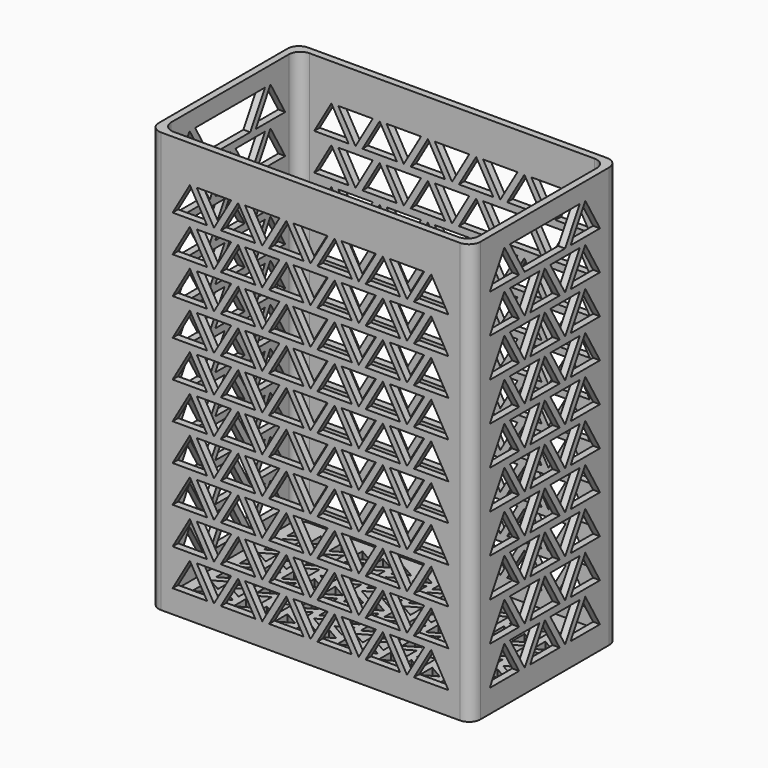
from build123d import *

# Parameters (mm, degrees)
F0_W      = 140
F0_H      = 80
F1_DEPTH  = 3
F2_W      = 140
F2_H      = 80
F2_W_2    = 134
F2_H_2    = 74
F3_DEPTH  = 180
F4_R      = 5
F6_DEPTH  = 140.001
F8_DEPTH  = 80.001
F10_DEPTH = 140.001


with BuildPart() as f1:
    # F0 (on Top) → F1 (new body)
    with BuildSketch(Plane.XY):
        Rectangle(F0_W, F0_H)
        Polygon((-62, -29.928203), (-56, -26.464102), (-56, -33.392305), align=None, mode=Mode.SUBTRACT)
        Polygon((-56, -23.464102), (-62, -26.928203), (-62, -20), align=None, mode=Mode.SUBTRACT)
        Polygon((-53, -29.928203), (-47, -26.464102), (-47, -33.392305), align=None, mode=Mode.SUBTRACT)
        Polygon((-44, -29.928203), (-38, -26.464102), (-38, -33.392305), align=None, mode=Mode.SUBTRACT)
        Polygon((-47, -23.464102), (-53, -26.928203), (-53, -20), align=None, mode=Mode.SUBTRACT)
        Polygon((-38, -23.464102), (-44, -26.928203), (-44, -20), align=None, mode=Mode.SUBTRACT)
        Polygon((-35, -29.928203), (-29, -26.464102), (-29, -33.392305), align=None, mode=Mode.SUBTRACT)
        Polygon((-26, -29.928203), (-20, -26.464102), (-20, -33.392305), align=None, mode=Mode.SUBTRACT)
        Polygon((-29, -23.464102), (-35, -26.928203), (-35, -20), align=None, mode=Mode.SUBTRACT)
        Polygon((-20, -23.464102), (-26, -26.928203), (-26, -20), align=None, mode=Mode.SUBTRACT)
        Polygon((-17, -29.928203), (-11, -26.464102), (-11, -33.392305), align=None, mode=Mode.SUBTRACT)
        Polygon((-8, -29.928203), (-2, -26.464102), (-2, -33.392305), align=None, mode=Mode.SUBTRACT)
        Polygon((-11, -23.464102), (-17, -26.928203), (-17, -20), align=None, mode=Mode.SUBTRACT)
        Polygon((-2, -23.464102), (-8, -26.928203), (-8, -20), align=None, mode=Mode.SUBTRACT)
        Polygon((-62, -16.928203), (-56, -13.464102), (-56, -20.392305), align=None, mode=Mode.SUBTRACT)
        Polygon((-56, -10.464102), (-62, -13.928203), (-62, -7), align=None, mode=Mode.SUBTRACT)
        Polygon((-53, -16.928203), (-47, -13.464102), (-47, -20.392305), align=None, mode=Mode.SUBTRACT)
        Polygon((-44, -16.928203), (-38, -13.464102), (-38, -20.392305), align=None, mode=Mode.SUBTRACT)
        Polygon((-47, -10.464102), (-53, -13.928203), (-53, -7), align=None, mode=Mode.SUBTRACT)
        Polygon((-38, -10.464102), (-44, -13.928203), (-44, -7), align=None, mode=Mode.SUBTRACT)
        Polygon((-62, -3.928203), (-56, -0.464102), (-56, -7.392305), align=None, mode=Mode.SUBTRACT)
        Polygon((-53, -3.928203), (-47, -0.464102), (-47, -7.392305), align=None, mode=Mode.SUBTRACT)
        Polygon((-44, -3.928203), (-38, -0.464102), (-38, -7.392305), align=None, mode=Mode.SUBTRACT)
        Polygon((-35, -16.928203), (-29, -13.464102), (-29, -20.392305), align=None, mode=Mode.SUBTRACT)
        Polygon((-26, -16.928203), (-20, -13.464102), (-20, -20.392305), align=None, mode=Mode.SUBTRACT)
        Polygon((-29, -10.464102), (-35, -13.928203), (-35, -7), align=None, mode=Mode.SUBTRACT)
        Polygon((-20, -10.464102), (-26, -13.928203), (-26, -7), align=None, mode=Mode.SUBTRACT)
        Polygon((-17, -16.928203), (-11, -13.464102), (-11, -20.392305), align=None, mode=Mode.SUBTRACT)
        Polygon((-8, -16.928203), (-2, -13.464102), (-2, -20.392305), align=None, mode=Mode.SUBTRACT)
        Polygon((-11, -10.464102), (-17, -13.928203), (-17, -7), align=None, mode=Mode.SUBTRACT)
        Polygon((-2, -10.464102), (-8, -13.928203), (-8, -7), align=None, mode=Mode.SUBTRACT)
        Polygon((-35, -3.928203), (-29, -0.464102), (-29, -7.392305), align=None, mode=Mode.SUBTRACT)
        Polygon((-26, -3.928203), (-20, -0.464102), (-20, -7.392305), align=None, mode=Mode.SUBTRACT)
        Polygon((-17, -3.928203), (-11, -0.464102), (-11, -7.392305), align=None, mode=Mode.SUBTRACT)
        Polygon((-8, -3.928203), (-2, -0.464102), (-2, -7.392305), align=None, mode=Mode.SUBTRACT)
        Polygon((1, -29.928203), (7, -26.464102), (7, -33.392305), align=None, mode=Mode.SUBTRACT)
        Polygon((10, -29.928203), (16, -26.464102), (16, -33.392305), align=None, mode=Mode.SUBTRACT)
        Polygon((7, -23.464102), (1, -26.928203), (1, -20), align=None, mode=Mode.SUBTRACT)
        Polygon((16, -23.464102), (10, -26.928203), (10, -20), align=None, mode=Mode.SUBTRACT)
        Polygon((19, -29.928203), (25, -26.464102), (25, -33.392305), align=None, mode=Mode.SUBTRACT)
        Polygon((28, -29.928203), (34, -26.464102), (34, -33.392305), align=None, mode=Mode.SUBTRACT)
        Polygon((25, -23.464102), (19, -26.928203), (19, -20), align=None, mode=Mode.SUBTRACT)
        Polygon((34, -23.464102), (28, -26.928203), (28, -20), align=None, mode=Mode.SUBTRACT)
        Polygon((37, -29.928203), (43, -26.464102), (43, -33.392305), align=None, mode=Mode.SUBTRACT)
        Polygon((46, -29.928203), (52, -26.464102), (52, -33.392305), align=None, mode=Mode.SUBTRACT)
        Polygon((43, -23.464102), (37, -26.928203), (37, -20), align=None, mode=Mode.SUBTRACT)
        Polygon((52, -23.464102), (46, -26.928203), (46, -20), align=None, mode=Mode.SUBTRACT)
        Polygon((55, -29.928203), (61, -26.464102), (61, -33.392305), align=None, mode=Mode.SUBTRACT)
        Polygon((61, -23.464102), (55, -26.928203), (55, -20), align=None, mode=Mode.SUBTRACT)
        Polygon((1, -16.928203), (7, -13.464102), (7, -20.392305), align=None, mode=Mode.SUBTRACT)
        Polygon((10, -16.928203), (16, -13.464102), (16, -20.392305), align=None, mode=Mode.SUBTRACT)
        Polygon((7, -10.464102), (1, -13.928203), (1, -7), align=None, mode=Mode.SUBTRACT)
        Polygon((16, -10.464102), (10, -13.928203), (10, -7), align=None, mode=Mode.SUBTRACT)
        Polygon((19, -16.928203), (25, -13.464102), (25, -20.392305), align=None, mode=Mode.SUBTRACT)
        Polygon((28, -16.928203), (34, -13.464102), (34, -20.392305), align=None, mode=Mode.SUBTRACT)
        Polygon((25, -10.464102), (19, -13.928203), (19, -7), align=None, mode=Mode.SUBTRACT)
        Polygon((34, -10.464102), (28, -13.928203), (28, -7), align=None, mode=Mode.SUBTRACT)
        Polygon((1, -3.928203), (7, -0.464102), (7, -7.392305), align=None, mode=Mode.SUBTRACT)
        Polygon((10, -3.928203), (16, -0.464102), (16, -7.392305), align=None, mode=Mode.SUBTRACT)
        Polygon((19, -3.928203), (25, -0.464102), (25, -7.392305), align=None, mode=Mode.SUBTRACT)
        Polygon((28, -3.928203), (34, -0.464102), (34, -7.392305), align=None, mode=Mode.SUBTRACT)
        Polygon((37, -16.928203), (43, -13.464102), (43, -20.392305), align=None, mode=Mode.SUBTRACT)
        Polygon((46, -16.928203), (52, -13.464102), (52, -20.392305), align=None, mode=Mode.SUBTRACT)
        Polygon((43, -10.464102), (37, -13.928203), (37, -7), align=None, mode=Mode.SUBTRACT)
        Polygon((52, -10.464102), (46, -13.928203), (46, -7), align=None, mode=Mode.SUBTRACT)
        Polygon((55, -16.928203), (61, -13.464102), (61, -20.392305), align=None, mode=Mode.SUBTRACT)
        Polygon((61, -10.464102), (55, -13.928203), (55, -7), align=None, mode=Mode.SUBTRACT)
        Polygon((37, -3.928203), (43, -0.464102), (43, -7.392305), align=None, mode=Mode.SUBTRACT)
        Polygon((46, -3.928203), (52, -0.464102), (52, -7.392305), align=None, mode=Mode.SUBTRACT)
        Polygon((55, -3.928203), (61, -0.464102), (61, -7.392305), align=None, mode=Mode.SUBTRACT)
        Polygon((-56, 2.535898), (-62, -0.928203), (-62, 6), align=None, mode=Mode.SUBTRACT)
        Polygon((-62, 9.071797), (-56, 12.535898), (-56, 5.607695), align=None, mode=Mode.SUBTRACT)
        Polygon((-47, 2.535898), (-53, -0.928203), (-53, 6), align=None, mode=Mode.SUBTRACT)
        Polygon((-38, 2.535898), (-44, -0.928203), (-44, 6), align=None, mode=Mode.SUBTRACT)
        Polygon((-53, 9.071797), (-47, 12.535898), (-47, 5.607695), align=None, mode=Mode.SUBTRACT)
        Polygon((-44, 9.071797), (-38, 12.535898), (-38, 5.607695), align=None, mode=Mode.SUBTRACT)
        Polygon((-56, 15.535898), (-62, 12.071797), (-62, 19), align=None, mode=Mode.SUBTRACT)
        Polygon((-47, 15.535898), (-53, 12.071797), (-53, 19), align=None, mode=Mode.SUBTRACT)
        Polygon((-38, 15.535898), (-44, 12.071797), (-44, 19), align=None, mode=Mode.SUBTRACT)
        Polygon((-29, 2.535898), (-35, -0.928203), (-35, 6), align=None, mode=Mode.SUBTRACT)
        Polygon((-20, 2.535898), (-26, -0.928203), (-26, 6), align=None, mode=Mode.SUBTRACT)
        Polygon((-35, 9.071797), (-29, 12.535898), (-29, 5.607695), align=None, mode=Mode.SUBTRACT)
        Polygon((-26, 9.071797), (-20, 12.535898), (-20, 5.607695), align=None, mode=Mode.SUBTRACT)
        Polygon((-11, 2.535898), (-17, -0.928203), (-17, 6), align=None, mode=Mode.SUBTRACT)
        Polygon((-2, 2.535898), (-8, -0.928203), (-8, 6), align=None, mode=Mode.SUBTRACT)
        Polygon((-17, 9.071797), (-11, 12.535898), (-11, 5.607695), align=None, mode=Mode.SUBTRACT)
        Polygon((-8, 9.071797), (-2, 12.535898), (-2, 5.607695), align=None, mode=Mode.SUBTRACT)
        Polygon((-29, 15.535898), (-35, 12.071797), (-35, 19), align=None, mode=Mode.SUBTRACT)
        Polygon((-20, 15.535898), (-26, 12.071797), (-26, 19), align=None, mode=Mode.SUBTRACT)
        Polygon((-11, 15.535898), (-17, 12.071797), (-17, 19), align=None, mode=Mode.SUBTRACT)
        Polygon((-2, 15.535898), (-8, 12.071797), (-8, 19), align=None, mode=Mode.SUBTRACT)
        Polygon((-62, 22.071797), (-56, 25.535898), (-56, 18.607695), align=None, mode=Mode.SUBTRACT)
        Polygon((-56, 28.535898), (-62, 25.071797), (-62, 32), align=None, mode=Mode.SUBTRACT)
        Polygon((-53, 22.071797), (-47, 25.535898), (-47, 18.607695), align=None, mode=Mode.SUBTRACT)
        Polygon((-44, 22.071797), (-38, 25.535898), (-38, 18.607695), align=None, mode=Mode.SUBTRACT)
        Polygon((-47, 28.535898), (-53, 25.071797), (-53, 32), align=None, mode=Mode.SUBTRACT)
        Polygon((-38, 28.535898), (-44, 25.071797), (-44, 32), align=None, mode=Mode.SUBTRACT)
        Polygon((-35, 22.071797), (-29, 25.535898), (-29, 18.607695), align=None, mode=Mode.SUBTRACT)
        Polygon((-26, 22.071797), (-20, 25.535898), (-20, 18.607695), align=None, mode=Mode.SUBTRACT)
        Polygon((-29, 28.535898), (-35, 25.071797), (-35, 32), align=None, mode=Mode.SUBTRACT)
        Polygon((-20, 28.535898), (-26, 25.071797), (-26, 32), align=None, mode=Mode.SUBTRACT)
        Polygon((-17, 22.071797), (-11, 25.535898), (-11, 18.607695), align=None, mode=Mode.SUBTRACT)
        Polygon((-8, 22.071797), (-2, 25.535898), (-2, 18.607695), align=None, mode=Mode.SUBTRACT)
        Polygon((-11, 28.535898), (-17, 25.071797), (-17, 32), align=None, mode=Mode.SUBTRACT)
        Polygon((-2, 28.535898), (-8, 25.071797), (-8, 32), align=None, mode=Mode.SUBTRACT)
        Polygon((7, 2.535898), (1, -0.928203), (1, 6), align=None, mode=Mode.SUBTRACT)
        Polygon((16, 2.535898), (10, -0.928203), (10, 6), align=None, mode=Mode.SUBTRACT)
        Polygon((1, 9.071797), (7, 12.535898), (7, 5.607695), align=None, mode=Mode.SUBTRACT)
        Polygon((10, 9.071797), (16, 12.535898), (16, 5.607695), align=None, mode=Mode.SUBTRACT)
        Polygon((25, 2.535898), (19, -0.928203), (19, 6), align=None, mode=Mode.SUBTRACT)
        Polygon((34, 2.535898), (28, -0.928203), (28, 6), align=None, mode=Mode.SUBTRACT)
        Polygon((19, 9.071797), (25, 12.535898), (25, 5.607695), align=None, mode=Mode.SUBTRACT)
        Polygon((28, 9.071797), (34, 12.535898), (34, 5.607695), align=None, mode=Mode.SUBTRACT)
        Polygon((7, 15.535898), (1, 12.071797), (1, 19), align=None, mode=Mode.SUBTRACT)
        Polygon((16, 15.535898), (10, 12.071797), (10, 19), align=None, mode=Mode.SUBTRACT)
        Polygon((25, 15.535898), (19, 12.071797), (19, 19), align=None, mode=Mode.SUBTRACT)
        Polygon((34, 15.535898), (28, 12.071797), (28, 19), align=None, mode=Mode.SUBTRACT)
        Polygon((43, 2.535898), (37, -0.928203), (37, 6), align=None, mode=Mode.SUBTRACT)
        Polygon((52, 2.535898), (46, -0.928203), (46, 6), align=None, mode=Mode.SUBTRACT)
        Polygon((37, 9.071797), (43, 12.535898), (43, 5.607695), align=None, mode=Mode.SUBTRACT)
        Polygon((46, 9.071797), (52, 12.535898), (52, 5.607695), align=None, mode=Mode.SUBTRACT)
        Polygon((61, 2.535898), (55, -0.928203), (55, 6), align=None, mode=Mode.SUBTRACT)
        Polygon((55, 9.071797), (61, 12.535898), (61, 5.607695), align=None, mode=Mode.SUBTRACT)
        Polygon((43, 15.535898), (37, 12.071797), (37, 19), align=None, mode=Mode.SUBTRACT)
        Polygon((52, 15.535898), (46, 12.071797), (46, 19), align=None, mode=Mode.SUBTRACT)
        Polygon((61, 15.535898), (55, 12.071797), (55, 19), align=None, mode=Mode.SUBTRACT)
        Polygon((1, 22.071797), (7, 25.535898), (7, 18.607695), align=None, mode=Mode.SUBTRACT)
        Polygon((10, 22.071797), (16, 25.535898), (16, 18.607695), align=None, mode=Mode.SUBTRACT)
        Polygon((7, 28.535898), (1, 25.071797), (1, 32), align=None, mode=Mode.SUBTRACT)
        Polygon((16, 28.535898), (10, 25.071797), (10, 32), align=None, mode=Mode.SUBTRACT)
        Polygon((19, 22.071797), (25, 25.535898), (25, 18.607695), align=None, mode=Mode.SUBTRACT)
        Polygon((28, 22.071797), (34, 25.535898), (34, 18.607695), align=None, mode=Mode.SUBTRACT)
        Polygon((25, 28.535898), (19, 25.071797), (19, 32), align=None, mode=Mode.SUBTRACT)
        Polygon((34, 28.535898), (28, 25.071797), (28, 32), align=None, mode=Mode.SUBTRACT)
        Polygon((37, 22.071797), (43, 25.535898), (43, 18.607695), align=None, mode=Mode.SUBTRACT)
        Polygon((46, 22.071797), (52, 25.535898), (52, 18.607695), align=None, mode=Mode.SUBTRACT)
        Polygon((43, 28.535898), (37, 25.071797), (37, 32), align=None, mode=Mode.SUBTRACT)
        Polygon((52, 28.535898), (46, 25.071797), (46, 32), align=None, mode=Mode.SUBTRACT)
        Polygon((55, 22.071797), (61, 25.535898), (61, 18.607695), align=None, mode=Mode.SUBTRACT)
        Polygon((61, 28.535898), (55, 25.071797), (55, 32), align=None, mode=Mode.SUBTRACT)
    extrude(amount=F1_DEPTH)

    # F2 (on face) → F3 (join)
    with BuildSketch(Plane.XY.offset(3)):
        Rectangle(F2_W, F2_H)
        Rectangle(F2_W_2, F2_H_2, mode=Mode.SUBTRACT)
    extrude(amount=F3_DEPTH)

    # F4
    f4_edges = [f1.edges().sort_by_distance(p)[0] for p in [
        (-70, -40, 91.5),
        (-70, 40, 91.5),
        (70, 40, 91.5),
        (70, -40, 91.5),
        (-67, -37, 93),
        (-67, 37, 93),
        (67, 37, 93),
        (67, -37, 93),
    ]]
    fillet(f4_edges, radius=F4_R)

    # F5 (on face) → F6 (cut, through all)
    with BuildSketch(Plane(origin=(-70, 0, 0), x_dir=(0, -1, 0), z_dir=(-1, 0, 0))):
        Polygon((-22, 175.560406), (-30, 161.704), (-14, 161.704), align=None)
        Polygon((-11, 161.704), (-3, 175.560406), (-19, 175.560406), align=None)
        Polygon((-8, 161.704), (8, 161.704), (0, 175.560406), align=None)
        Polygon((11, 161.704), (19, 175.560406), (3, 175.560406), align=None)
        Polygon((14, 161.704), (30, 161.704), (22, 175.560406), align=None)
        Polygon((14, 144.848), (30, 144.848), (22, 158.704406), align=None)
        Polygon((11, 144.848), (19, 158.704406), (3, 158.704406), align=None)
        Polygon((-8, 144.848), (8, 144.848), (0, 158.704406), align=None)
        Polygon((-11, 144.848), (-3, 158.704406), (-19, 158.704406), align=None)
        Polygon((-22, 158.704406), (-30, 144.848), (-14, 144.848), align=None)
        Polygon((-11, 127.992), (-3, 141.848406), (-19, 141.848406), align=None)
        Polygon((11, 127.992), (19, 141.848406), (3, 141.848406), align=None)
        Polygon((14, 127.992), (30, 127.992), (22, 141.848406), align=None)
        Polygon((-22, 141.848406), (-30, 127.992), (-14, 127.992), align=None)
        Polygon((-22, 124.992406), (-30, 111.136), (-14, 111.136), align=None)
        Polygon((-11, 111.136), (-3, 124.992406), (-19, 124.992406), align=None)
        Polygon((-8, 127.992), (8, 127.992), (0, 141.848406), align=None)
        Polygon((-8, 111.136), (8, 111.136), (0, 124.992406), align=None)
        Polygon((11, 111.136), (19, 124.992406), (3, 124.992406), align=None)
        Polygon((14, 111.136), (30, 111.136), (22, 124.992406), align=None)
        Polygon((14, 94.28), (30, 94.28), (22, 108.136406), align=None)
        Polygon((11, 94.28), (19, 108.136406), (3, 108.136406), align=None)
        Polygon((-8, 94.28), (8, 94.28), (0, 108.136406), align=None)
        Polygon((-11, 94.28), (-3, 108.136406), (-19, 108.136406), align=None)
        Polygon((-22, 108.136406), (-30, 94.28), (-14, 94.28), align=None)
        Polygon((-22, 91.280406), (-30, 77.424), (-14, 77.424), align=None)
        Polygon((-11, 77.424), (-3, 91.280406), (-19, 91.280406), align=None)
        Polygon((-8, 77.424), (8, 77.424), (0, 91.280406), align=None)
        Polygon((11, 77.424), (19, 91.280406), (3, 91.280406), align=None)
        Polygon((14, 77.424), (30, 77.424), (22, 91.280406), align=None)
        Polygon((14, 60.568), (30, 60.568), (22, 74.424406), align=None)
        Polygon((11, 60.568), (19, 74.424406), (3, 74.424406), align=None)
        Polygon((-8, 60.568), (8, 60.568), (0, 74.424406), align=None)
        Polygon((-11, 60.568), (-3, 74.424406), (-19, 74.424406), align=None)
        Polygon((-22, 74.424406), (-30, 60.568), (-14, 60.568), align=None)
        Polygon((-22, 57.568406), (-30, 43.712), (-14, 43.712), align=None)
        Polygon((-11, 43.712), (-3, 57.568406), (-19, 57.568406), align=None)
        Polygon((-8, 43.712), (8, 43.712), (0, 57.568406), align=None)
        Polygon((11, 43.712), (19, 57.568406), (3, 57.568406), align=None)
        Polygon((14, 43.712), (30, 43.712), (22, 57.568406), align=None)
        Polygon((14, 26.856), (30, 26.856), (22, 40.712406), align=None)
        Polygon((-8, 26.856), (8, 26.856), (0, 40.712406), align=None)
        Polygon((11, 26.856), (19, 40.712406), (3, 40.712406), align=None)
        Polygon((-22, 40.712406), (-30, 26.856), (-14, 26.856), align=None)
        Polygon((-11, 26.856), (-3, 40.712406), (-19, 40.712406), align=None)
        Polygon((-30, 10), (-14, 10), (-22, 23.856406), align=None)
        Polygon((-3, 23.856406), (-19, 23.856406), (-11, 10), align=None)
        Polygon((-8, 10), (8, 10), (0, 23.856406), align=None)
        Polygon((19, 23.856406), (3, 23.856406), (11, 10), align=None)
        Polygon((14, 10), (30, 10), (22, 23.856406), align=None)
    extrude(amount=-F6_DEPTH, mode=Mode.SUBTRACT)

    # F7 (on face) → F8 (cut, through all)
    with BuildSketch(Plane.XZ.offset(40)):
        Polygon((-60, 10), (-45, 10), (-52.5, 22.990381), align=None)
        Polygon((-34.5, 22.990381), (-49.5, 22.990381), (-42, 10), align=None)
        Polygon((-39, 10), (-24, 10), (-31.5, 22.990381), align=None)
        Polygon((-13.5, 22.990381), (-28.5, 22.990381), (-21, 10), align=None)
        Polygon((-18, 10), (-3, 10), (-10.5, 22.990381), align=None)
        Polygon((7.5, 22.990381), (-7.5, 22.990381), (0, 10), align=None)
        Polygon((3, 10), (18, 10), (10.5, 22.990381), align=None)
        Polygon((28.5, 22.990381), (13.5, 22.990381), (21, 10), align=None)
        Polygon((24, 10), (39, 10), (31.5, 22.990381), align=None)
        Polygon((49.5, 22.990381), (34.5, 22.990381), (42, 10), align=None)
        Polygon((45, 10), (60, 10), (52.5, 22.990381), align=None)
        Polygon((-24, 25.99), (-31.5, 38.980381), (-39, 25.99), align=None)
        Polygon((-60, 25.99), (-45, 25.99), (-52.5, 38.980381), align=None)
        Polygon((-42, 25.99), (-34.5, 38.980381), (-49.5, 38.980381), align=None)
        Polygon((28.5, 38.980381), (13.5, 38.980381), (21, 25.99), align=None)
        Polygon((-28.5, 38.980381), (-21, 25.99), (-13.5, 38.980381), align=None)
        Polygon((60, 25.99), (52.5, 38.980381), (45, 25.99), align=None)
        Polygon((-10.5, 38.980381), (-18, 25.99), (-3, 25.99), align=None)
        Polygon((0, 25.99), (7.5, 38.980381), (-7.5, 38.980381), align=None)
        Polygon((3, 25.99), (18, 25.99), (10.5, 38.980381), align=None)
        Polygon((31.5, 38.980381), (24, 25.99), (39, 25.99), align=None)
        Polygon((34.5, 38.980381), (42, 25.99), (49.5, 38.980381), align=None)
        Polygon((-24, 41.98), (-31.5, 54.970381), (-39, 41.98), align=None)
        Polygon((-60, 41.98), (-45, 41.98), (-52.5, 54.970381), align=None)
        Polygon((-42, 41.98), (-34.5, 54.970381), (-49.5, 54.970381), align=None)
        Polygon((28.5, 54.970381), (13.5, 54.970381), (21, 41.98), align=None)
        Polygon((-28.5, 54.970381), (-21, 41.98), (-13.5, 54.970381), align=None)
        Polygon((60, 41.98), (52.5, 54.970381), (45, 41.98), align=None)
        Polygon((-10.5, 54.970381), (-18, 41.98), (-3, 41.98), align=None)
        Polygon((0, 41.98), (7.5, 54.970381), (-7.5, 54.970381), align=None)
        Polygon((3, 41.98), (18, 41.98), (10.5, 54.970381), align=None)
        Polygon((31.5, 54.970381), (24, 41.98), (39, 41.98), align=None)
        Polygon((34.5, 54.970381), (42, 41.98), (49.5, 54.970381), align=None)
        Polygon((-24, 57.97), (-31.5, 70.960381), (-39, 57.97), align=None)
        Polygon((-60, 57.97), (-45, 57.97), (-52.5, 70.960381), align=None)
        Polygon((-42, 57.97), (-34.5, 70.960381), (-49.5, 70.960381), align=None)
        Polygon((28.5, 70.960381), (13.5, 70.960381), (21, 57.97), align=None)
        Polygon((-28.5, 70.960381), (-21, 57.97), (-13.5, 70.960381), align=None)
        Polygon((60, 57.97), (52.5, 70.960381), (45, 57.97), align=None)
        Polygon((-10.5, 70.960381), (-18, 57.97), (-3, 57.97), align=None)
        Polygon((0, 57.97), (7.5, 70.960381), (-7.5, 70.960381), align=None)
        Polygon((3, 57.97), (18, 57.97), (10.5, 70.960381), align=None)
        Polygon((31.5, 70.960381), (24, 57.97), (39, 57.97), align=None)
        Polygon((34.5, 70.960381), (42, 57.97), (49.5, 70.960381), align=None)
        Polygon((-24, 73.96), (-31.5, 86.950381), (-39, 73.96), align=None)
        Polygon((-60, 73.96), (-45, 73.96), (-52.5, 86.950381), align=None)
        Polygon((-42, 73.96), (-34.5, 86.950381), (-49.5, 86.950381), align=None)
        Polygon((28.5, 86.950381), (13.5, 86.950381), (21, 73.96), align=None)
        Polygon((-28.5, 86.950381), (-21, 73.96), (-13.5, 86.950381), align=None)
        Polygon((60, 73.96), (52.5, 86.950381), (45, 73.96), align=None)
        Polygon((-10.5, 86.950381), (-18, 73.96), (-3, 73.96), align=None)
        Polygon((0, 73.96), (7.5, 86.950381), (-7.5, 86.950381), align=None)
        Polygon((3, 73.96), (18, 73.96), (10.5, 86.950381), align=None)
        Polygon((31.5, 86.950381), (24, 73.96), (39, 73.96), align=None)
        Polygon((34.5, 86.950381), (42, 73.96), (49.5, 86.950381), align=None)
        Polygon((-24, 89.95), (-31.5, 102.940381), (-39, 89.95), align=None)
        Polygon((-60, 89.95), (-45, 89.95), (-52.5, 102.940381), align=None)
        Polygon((-42, 89.95), (-34.5, 102.940381), (-49.5, 102.940381), align=None)
        Polygon((28.5, 102.940381), (13.5, 102.940381), (21, 89.95), align=None)
        Polygon((-28.5, 102.940381), (-21, 89.95), (-13.5, 102.940381), align=None)
        Polygon((60, 89.95), (52.5, 102.940381), (45, 89.95), align=None)
        Polygon((-10.5, 102.940381), (-18, 89.95), (-3, 89.95), align=None)
        Polygon((0, 89.95), (7.5, 102.940381), (-7.5, 102.940381), align=None)
        Polygon((3, 89.95), (18, 89.95), (10.5, 102.940381), align=None)
        Polygon((31.5, 102.940381), (24, 89.95), (39, 89.95), align=None)
        Polygon((34.5, 102.940381), (42, 89.95), (49.5, 102.940381), align=None)
        Polygon((-24, 105.94), (-31.5, 118.930381), (-39, 105.94), align=None)
        Polygon((-60, 105.94), (-45, 105.94), (-52.5, 118.930381), align=None)
        Polygon((-42, 105.94), (-34.5, 118.930381), (-49.5, 118.930381), align=None)
        Polygon((28.5, 118.930381), (13.5, 118.930381), (21, 105.94), align=None)
        Polygon((-28.5, 118.930381), (-21, 105.94), (-13.5, 118.930381), align=None)
        Polygon((60, 105.94), (52.5, 118.930381), (45, 105.94), align=None)
        Polygon((-10.5, 118.930381), (-18, 105.94), (-3, 105.94), align=None)
        Polygon((0, 105.94), (7.5, 118.930381), (-7.5, 118.930381), align=None)
        Polygon((3, 105.94), (18, 105.94), (10.5, 118.930381), align=None)
        Polygon((31.5, 118.930381), (24, 105.94), (39, 105.94), align=None)
        Polygon((34.5, 118.930381), (42, 105.94), (49.5, 118.930381), align=None)
        Polygon((-24, 121.93), (-31.5, 134.920381), (-39, 121.93), align=None)
        Polygon((-60, 121.93), (-45, 121.93), (-52.5, 134.920381), align=None)
        Polygon((-42, 121.93), (-34.5, 134.920381), (-49.5, 134.920381), align=None)
        Polygon((28.5, 134.920381), (13.5, 134.920381), (21, 121.93), align=None)
        Polygon((-28.5, 134.920381), (-21, 121.93), (-13.5, 134.920381), align=None)
        Polygon((60, 121.93), (52.5, 134.920381), (45, 121.93), align=None)
        Polygon((-10.5, 134.920381), (-18, 121.93), (-3, 121.93), align=None)
        Polygon((0, 121.93), (7.5, 134.920381), (-7.5, 134.920381), align=None)
        Polygon((3, 121.93), (18, 121.93), (10.5, 134.920381), align=None)
        Polygon((31.5, 134.920381), (24, 121.93), (39, 121.93), align=None)
        Polygon((34.5, 134.920381), (42, 121.93), (49.5, 134.920381), align=None)
        Polygon((-24, 137.92), (-31.5, 150.910381), (-39, 137.92), align=None)
        Polygon((-60, 137.92), (-45, 137.92), (-52.5, 150.910381), align=None)
        Polygon((-42, 137.92), (-34.5, 150.910381), (-49.5, 150.910381), align=None)
        Polygon((28.5, 150.910381), (13.5, 150.910381), (21, 137.92), align=None)
        Polygon((-28.5, 150.910381), (-21, 137.92), (-13.5, 150.910381), align=None)
        Polygon((60, 137.92), (52.5, 150.910381), (45, 137.92), align=None)
        Polygon((-10.5, 150.910381), (-18, 137.92), (-3, 137.92), align=None)
        Polygon((0, 137.92), (7.5, 150.910381), (-7.5, 150.910381), align=None)
        Polygon((3, 137.92), (18, 137.92), (10.5, 150.910381), align=None)
        Polygon((31.5, 150.910381), (24, 137.92), (39, 137.92), align=None)
        Polygon((34.5, 150.910381), (42, 137.92), (49.5, 150.910381), align=None)
        Polygon((-24, 153.91), (-31.5, 166.900381), (-39, 153.91), align=None)
        Polygon((-60, 153.91), (-45, 153.91), (-52.5, 166.900381), align=None)
        Polygon((-42, 153.91), (-34.5, 166.900381), (-49.5, 166.900381), align=None)
        Polygon((28.5, 166.900381), (13.5, 166.900381), (21, 153.91), align=None)
        Polygon((-28.5, 166.900381), (-21, 153.91), (-13.5, 166.900381), align=None)
        Polygon((60, 153.91), (52.5, 166.900381), (45, 153.91), align=None)
        Polygon((-10.5, 166.900381), (-18, 153.91), (-3, 153.91), align=None)
        Polygon((0, 153.91), (7.5, 166.900381), (-7.5, 166.900381), align=None)
        Polygon((3, 153.91), (18, 153.91), (10.5, 166.900381), align=None)
        Polygon((31.5, 166.900381), (24, 153.91), (39, 153.91), align=None)
        Polygon((34.5, 166.900381), (42, 153.91), (49.5, 166.900381), align=None)
    extrude(amount=-F8_DEPTH, mode=Mode.SUBTRACT)

    # F9 (on face) → F10 (cut, through all)
    with BuildSketch(Plane.YZ.offset(70)):
        Polygon((0, 175.560406), (-3, 175.560406), (-11, 161.704), (-8, 161.704), align=None)
        Polygon((3, 175.560406), (0, 175.560406), (8, 161.704), (11, 161.704), align=None)
    extrude(amount=-F10_DEPTH, mode=Mode.SUBTRACT)


solid = f1.part
